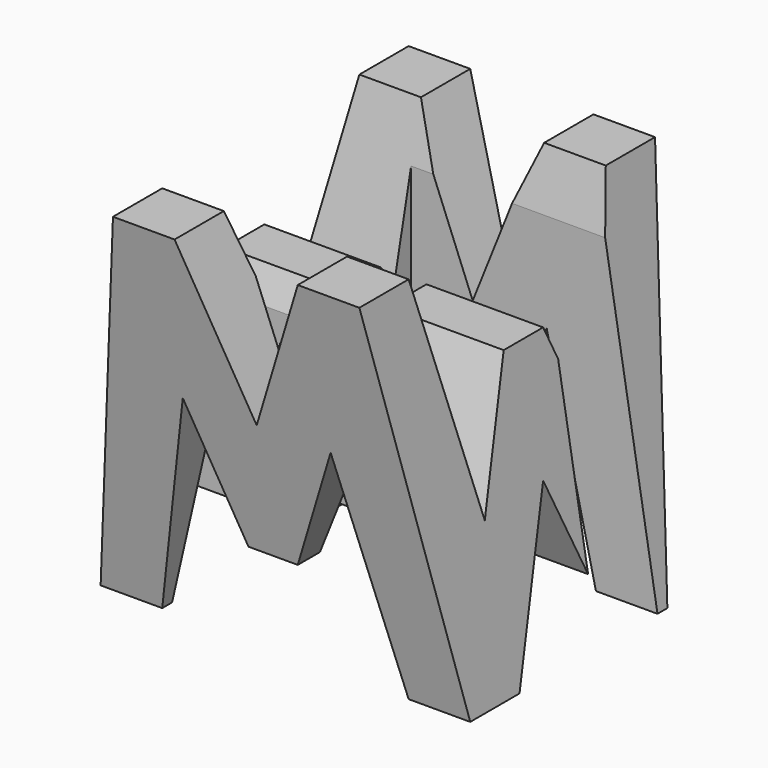
from build123d import *

# Parameters (mm, degrees)
F0_W      = 38.1
F0_H      = 38.1
F1_DEPTH  = 38.1
F6_DEPTH  = 76.2
F8_DEPTH  = 76.2
F9_W      = 25.4
F9_H      = 7.62
F10_DEPTH = 76.2


with BuildPart() as f1:
    # F0 (on Front) → F1 (new body)
    with BuildSketch(Plane.XZ):
        with Locations((-19.05, 19.05)):
            Rectangle(F0_W, F0_H)
        with Locations((-19.05, 19.05)):
            Rectangle(F0_W, F0_H)
    extrude(amount=F1_DEPTH)

    # F5 (on offset) → F6 (cut)
    with BuildSketch(Plane.YZ.offset(38.1)):
        Polygon((-11.43, 15.2127137408), (-6.35, 38.1), (-31.75, 38.1), (-26.67, 15.3867928311), (-21.59, 28.0867928311), (-16.51, 28.0867928311), align=None)
        Polygon((-31.75, 0), (-38.1, 38.1), (-38.1, 0), align=None)
        Polygon((-25.4, 0), (-12.7, 0), (-19.05, 15.875), align=None)
        Polygon((-6.35, 0), (0, 0), (0, 38.1), align=None)
    extrude(amount=-F6_DEPTH, mode=Mode.SUBTRACT)

    # F7 (on offset) → F8 (cut)
    with BuildSketch(Plane.XZ.offset(38.1)):
        Polygon((-19.05, 22.225), (-12.7, 38.1), (-25.4, 38.1), align=None)
        Polygon((-38.1, 38.1), (-38.1, 0), (-31.75, 38.1), align=None)
        Polygon((-31.75, 0), (-6.35, 0), (-11.43, 22.225), (-16.51, 9.525), (-21.59, 9.525), (-26.67, 22.225), align=None)
        Polygon((-6.35, 38.1), (0, 0), (0, 38.1), align=None)
    extrude(amount=-F8_DEPTH, mode=Mode.SUBTRACT)

    # F9 (on offset) → F10 (cut)
    with BuildSketch(Plane.XY.offset(38.1)):
        with Locations((-25.4, -26.67)):
            Rectangle(F9_W, F9_H)
        with Locations((-12.7, -11.43)):
            Rectangle(F9_W, F9_H)
    extrude(amount=-F10_DEPTH, mode=Mode.SUBTRACT)


solid = f1.part
